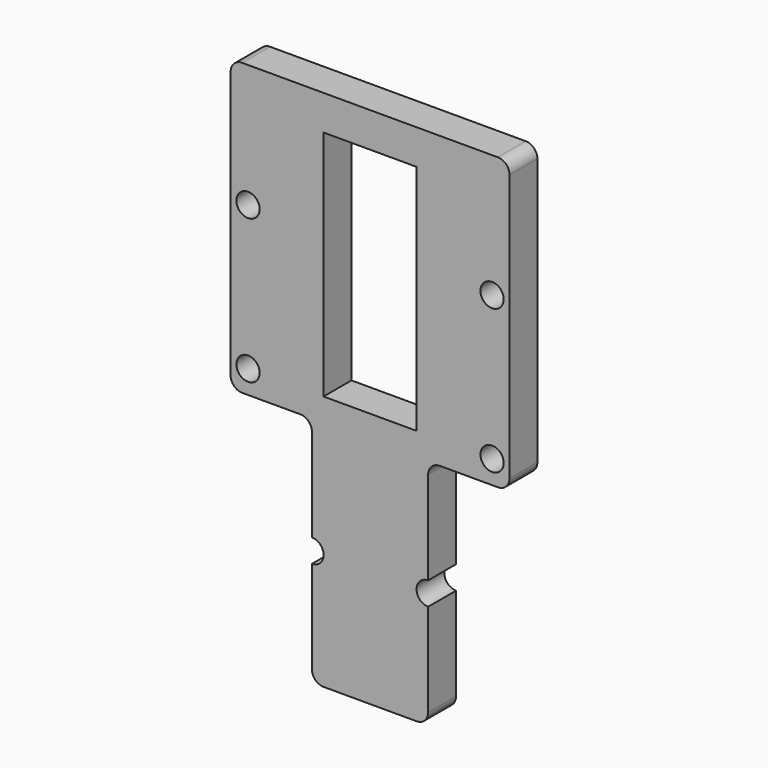
from build123d import *

# Parameters (mm, degrees)
F0_R     = 1
F0_W     = 8
F0_H     = 20
F1_DEPTH = 3


with BuildPart() as f1:
    # F0 (on Front) → F1 (new body)
    with BuildSketch(Plane.XZ):
        with BuildLine():
            Line((23, 1e-06), (1, 0))
            ThreePointArc((1, 0), (0.292893, -0.292893), (0, -1))
            Line((0, -1), (0, -23.999999))
            ThreePointArc((0, -23.999999), (0.292893, -24.707106), (1, -24.999999))
            Line((1, -24.999999), (6, -24.999999))
            ThreePointArc((6, -24.999999), (6.707107, -25.292892), (7, -25.999999))
            Line((7, -25.999999), (7, -33.999999))
            ThreePointArc((7, -33.999999), (8, -34.999999), (7, -35.999999))
            Line((7, -35.999999), (7, -43.999999))
            ThreePointArc((7, -43.999999), (7.292893, -44.707106), (8, -44.999999))
            Line((8, -44.999999), (16, -44.999999))
            ThreePointArc((16, -44.999999), (16.707107, -44.707106), (17, -43.999999))
            Line((17, -43.999999), (17, -35.999999))
            ThreePointArc((17, -35.999999), (16, -34.999999), (17, -33.999999))
            Line((17, -33.999999), (17, -25.999999))
            ThreePointArc((17, -25.999999), (17.292893, -25.292892), (18, -24.999999))
            Line((18, -24.999999), (23, -24.999999))
            ThreePointArc((23, -24.999999), (23.707107, -24.707106), (24, -23.999999))
            Line((24, -23.999999), (24, -0.999999))
            ThreePointArc((24, -0.999999), (23.707107, -0.292892), (23, 1e-06))
        make_face()
        with Locations((1.5, -22.999999)):
            Circle(F0_R, mode=Mode.SUBTRACT)
        with Locations((22.5, -22.999999)):
            Circle(F0_R, mode=Mode.SUBTRACT)
        with Locations((1.5, -10.599999)):
            Circle(F0_R, mode=Mode.SUBTRACT)
        with Locations((12, -13)):
            Rectangle(F0_W, F0_H, mode=Mode.SUBTRACT)
        with Locations((22.5, -10.599999)):
            Circle(F0_R, mode=Mode.SUBTRACT)
    extrude(amount=F1_DEPTH)


solid = f1.part
